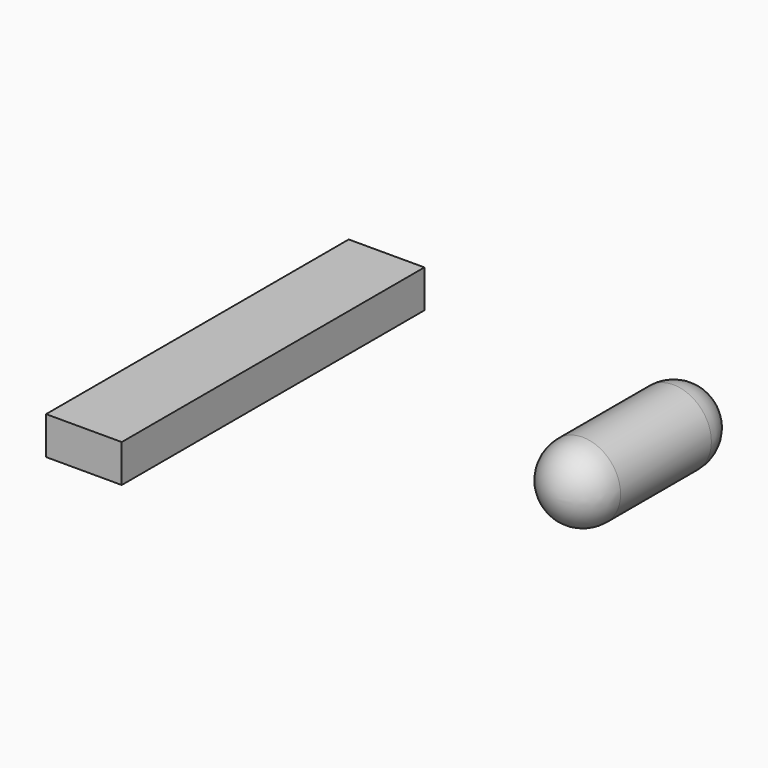
from build123d import *

# Parameters (mm, degrees)
F0_W     = 10
F0_H     = 5
F1_DEPTH = 50
F2_R     = 5
F3_DEPTH = 25
F4_R     = 5


with BuildPart() as f1:
    # F0 (on Front) → F1 (new body)
    with BuildSketch(Plane.XZ):
        with Locations((-28.956337, 16.204842)):
            Rectangle(F0_W, F0_H)
    extrude(amount=F1_DEPTH)


with BuildPart() as f3:
    # F2 (on Front) → F3 (new body)
    with BuildSketch(Plane.XZ):
        with Locations((12.972972, 14.087838)):
            Circle(F2_R)
    extrude(amount=F3_DEPTH)

    # F4
    f4_edges = [f3.edges().sort_by_distance(p)[0] for p in [
        (7.972972, -25, 14.087838),
        (7.972972, 0, 14.087838),
    ]]
    fillet(f4_edges, radius=F4_R)


solid = Compound([f1.part, f3.part])
